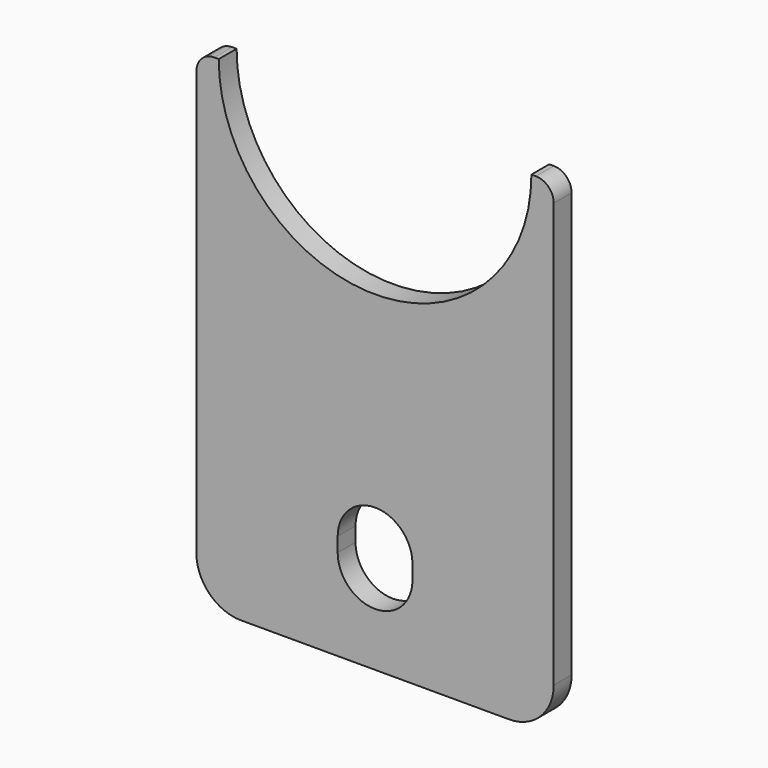
from build123d import *

# Parameters (mm, degrees)
F1_DEPTH = 3.175


with BuildPart() as f1:
    # F0 (on Front) → F1 (new body)
    with BuildSketch(Plane.XZ):
        with BuildLine():
            ThreePointArc((22.225, 0), (0, -22.225), (-22.225, 0))
            Line((-22.225, 0), (-22.86, 0))
            ThreePointArc((-22.86, 0), (-24.656051, -0.743949), (-25.4, -2.54))
            Line((-25.4, -2.54), (-25.4, -62.865))
            ThreePointArc((-25.4, -62.865), (-23.540128, -67.355128), (-19.05, -69.215))
            Line((-19.05, -69.215), (0, -69.215))
            Line((0, -69.215), (19.05, -69.215))
            ThreePointArc((19.05, -69.215), (23.540128, -67.355128), (25.4, -62.865))
            Line((25.4, -62.865), (25.4, -2.54))
            ThreePointArc((25.4, -2.54), (24.656051, -0.743949), (22.86, 0))
            Line((22.86, 0), (22.225, 0))
        make_face()
        with BuildLine():
            ThreePointArc((-5.31495, -54.20995), (0, -48.895), (5.31495, -54.20995))
            Line((5.31495, -54.20995), (5.31495, -56.28005))
            ThreePointArc((5.31495, -56.28005), (0, -61.595), (-5.31495, -56.28005))
            Line((-5.31495, -56.28005), (-5.31495, -54.20995))
        make_face(mode=Mode.SUBTRACT)
    extrude(amount=F1_DEPTH)


solid = f1.part
